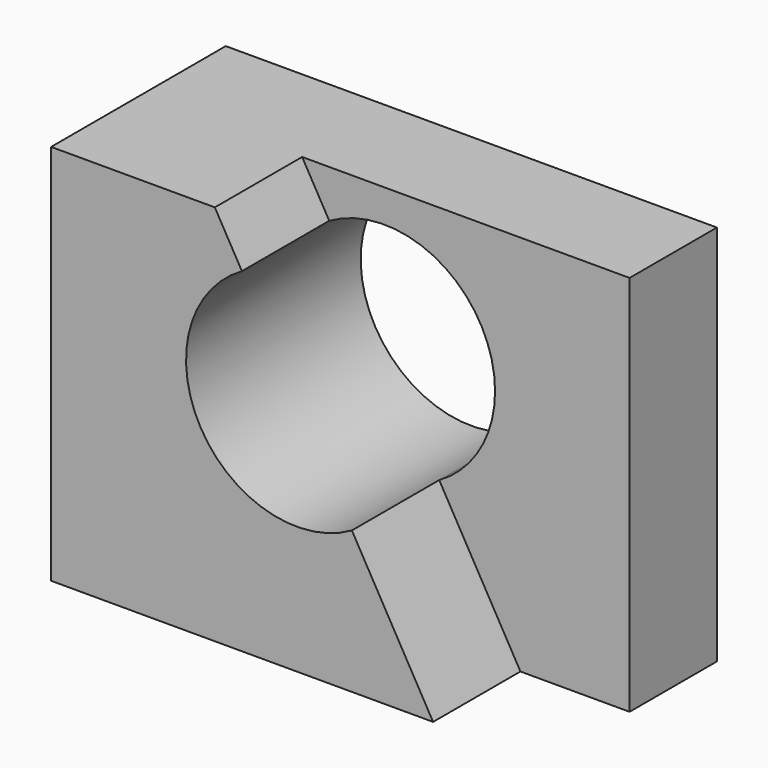
from build123d import *

# Parameters (mm, degrees)
F0_W     = 57.15
F0_H     = 44.45
F1_DEPTH = 25.4
F3_DEPTH = 12.7
F4_DEPTH = 25.4


with BuildPart() as f1:
    # F0 (on Front) → F1 (new body)
    with BuildSketch(Plane.XZ):
        with Locations((-30.2558824187, 38.2586528428)):
            Rectangle(F0_W, F0_H)
    extrude(amount=F1_DEPTH)

    # F2 (on face) → F3 (cut)
    with BuildSketch(Plane.XZ.offset(25.4)):
        with BuildLine():
            ThreePointArc((-17.3336963264, 43.7719967953), (-23.7576790398, 54.9273203296), (-36.6304001601, 54.9703088903))
            Line((-36.6304001601, 54.9703088903), (-23.8323291944, 32.5736847003))
            ThreePointArc((-23.8323291944, 32.5736847003), (-19.0760411429, 37.2983111579), (-17.3336963264, 43.7719967953))
        make_face()
        with BuildLine():
            Line((-23.8323291944, 32.5736847003), (-36.6304001601, 54.9703088903))
            ThreePointArc((-36.6304001601, 54.9703088903), (-41.4296767723, 37.3729613124), (-23.8323291944, 32.5736847003))
        make_face()
        with BuildLine():
            Line((-1.6808824187, 60.4836528428), (-39.7808824187, 60.4836528428))
            Line((-39.7808824187, 60.4836528428), (-36.6304001601, 54.9703088903))
            ThreePointArc((-36.6304001601, 54.9703088903), (-23.7576790398, 54.9273203296), (-17.3336963264, 43.7719967953))
            ThreePointArc((-17.3336963264, 43.7719967953), (-19.0760411429, 37.2983111579), (-23.8323291944, 32.5736847003))
            Line((-23.8323291944, 32.5736847003), (-14.3808824187, 16.0336528428))
            Line((-14.3808824187, 16.0336528428), (-1.6808824187, 16.0336528428))
            Line((-1.6808824187, 16.0336528428), (-1.6808824187, 60.4836528428))
        make_face()
    extrude(amount=-F3_DEPTH, mode=Mode.SUBTRACT)

    # F2 (on face) → F4 (cut)
    with BuildSketch(Plane.XZ.offset(25.4)):
        with BuildLine():
            ThreePointArc((-17.3336963264, 43.7719967953), (-23.7576790398, 54.9273203296), (-36.6304001601, 54.9703088903))
            Line((-36.6304001601, 54.9703088903), (-23.8323291944, 32.5736847003))
            ThreePointArc((-23.8323291944, 32.5736847003), (-19.0760411429, 37.2983111579), (-17.3336963264, 43.7719967953))
        make_face()
        with BuildLine():
            Line((-23.8323291944, 32.5736847003), (-36.6304001601, 54.9703088903))
            ThreePointArc((-36.6304001601, 54.9703088903), (-41.4296767723, 37.3729613124), (-23.8323291944, 32.5736847003))
        make_face()
    extrude(amount=-F4_DEPTH, mode=Mode.SUBTRACT)


solid = f1.part
